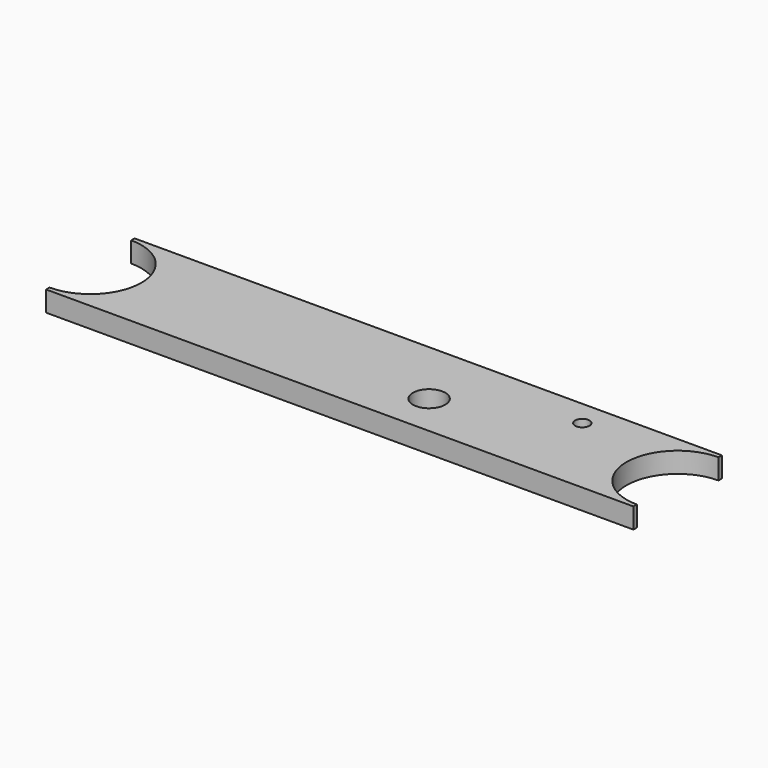
from build123d import *

# Parameters (mm, degrees)
F0_R     = 9.5
F0_R_2   = 4.25
F1_DEPTH = 6


with BuildPart() as f1:
    # F0 (on Top) → F1 (new body, symmetric)
    with BuildSketch(Plane.XY):
        with BuildLine():
            Line((172.5, 32.5), (-172.5, 32.5))
            Line((-172.5, 32.5), (-172.5, 30))
            ThreePointArc((-172.5, 30), (-151.286797, 21.213203), (-142.5, 0))
            ThreePointArc((-142.5, 0), (-151.286797, -21.213203), (-172.5, -30))
            Line((-172.5, -30), (-172.5, -32.5))
            Line((-172.5, -32.5), (172.5, -32.5))
            Line((172.5, -32.5), (172.5, -30))
            ThreePointArc((172.5, -30), (142.5, 0), (172.5, 30))
            Line((172.5, 30), (172.5, 32.5))
        make_face()
        with Locations((32.5, -7.5)):
            Circle(F0_R, mode=Mode.SUBTRACT)
        with Locations((102.5, 17.5)):
            Circle(F0_R_2, mode=Mode.SUBTRACT)
    extrude(amount=F1_DEPTH, both=True)


solid = f1.part
